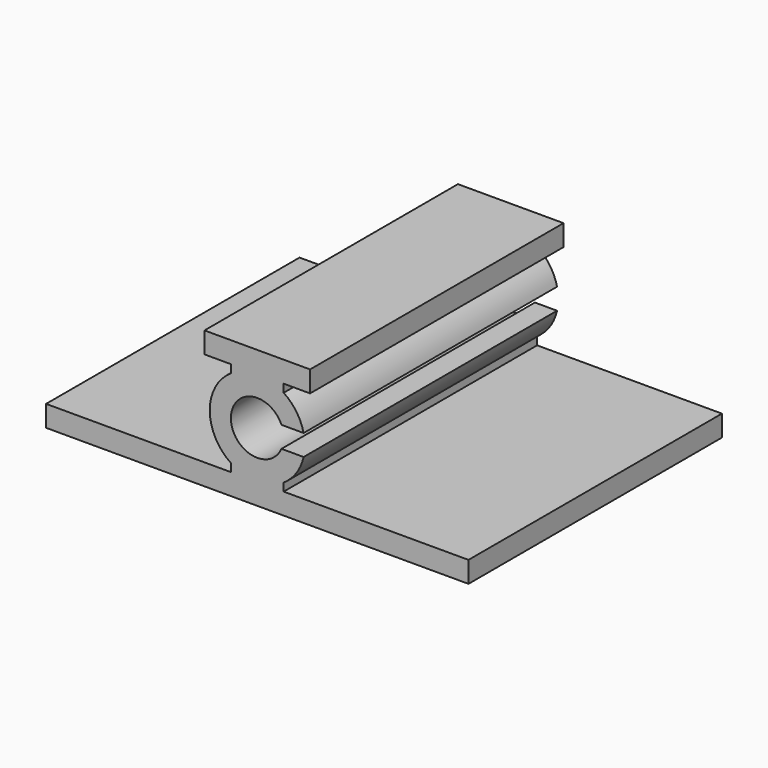
from build123d import *

# Parameters (mm, degrees)
F1_DEPTH = 38.1


with BuildPart() as f1:
    # F0 (on Front) → F1 (new body)
    with BuildSketch(Plane.XZ):
        Polygon((12.7, 0), (0, 0), (0, -2.54), (3.175, -2.54), (6.35, -2.54), (9.525, -2.54), (12.7, -2.54), align=None)
        with BuildLine():
            Line((6.35, -2.54), (3.175, -2.54))
            Line((3.175, -2.54), (3.175, -3.503095))
            ThreePointArc((3.175, -3.503095), (4.691071, -2.786071), (6.35, -2.54))
        make_face()
        with BuildLine():
            ThreePointArc((9.525, -3.503095), (8.008929, -2.786071), (6.35, -2.54))
            ThreePointArc((6.35, -2.54), (4.691071, -2.786071), (3.175, -3.503095))
            Line((3.175, -3.503095), (9.525, -3.503095))
        make_face()
        with BuildLine():
            Line((9.525, -3.503095), (9.525, -2.54))
            Line((9.525, -2.54), (6.35, -2.54))
            ThreePointArc((6.35, -2.54), (8.008929, -2.786071), (9.525, -3.503095))
        make_face()
        with BuildLine():
            Line((9.525, -3.503095), (3.175, -3.503095))
            ThreePointArc((3.175, -3.503095), (0.635, -8.255), (3.175, -13.006905))
            Line((3.175, -13.006905), (9.525, -13.006905))
            ThreePointArc((9.525, -13.006905), (11.05732, -11.495734), (11.922102, -9.525))
            Line((11.922102, -9.525), (9.259936, -9.525))
            ThreePointArc((9.259936, -9.525), (3.175, -8.255), (9.259936, -6.985))
            Line((9.259936, -6.985), (11.922102, -6.985))
            ThreePointArc((11.922102, -6.985), (11.05732, -5.014266), (9.525, -3.503095))
        make_face()
        with BuildLine():
            Line((9.525, -13.006905), (3.175, -13.006905))
            ThreePointArc((3.175, -13.006905), (4.691071, -13.723929), (6.35, -13.97))
            ThreePointArc((6.35, -13.97), (8.008929, -13.723929), (9.525, -13.006905))
        make_face()
        with BuildLine():
            ThreePointArc((9.525, -13.006905), (8.008929, -13.723929), (6.35, -13.97))
            Line((6.35, -13.97), (9.525, -13.97))
            Line((9.525, -13.97), (9.525, -13.006905))
        make_face()
        with BuildLine():
            ThreePointArc((6.35, -13.97), (4.691071, -13.723929), (3.175, -13.006905))
            Line((3.175, -13.006905), (3.175, -13.97))
            Line((3.175, -13.97), (6.35, -13.97))
        make_face()
        Polygon((9.525, -13.97), (6.35, -13.97), (3.175, -13.97), (-19.05, -13.97), (-19.05, -16.51), (31.75, -16.51), (31.75, -13.97), align=None)
    extrude(amount=F1_DEPTH)


solid = f1.part
